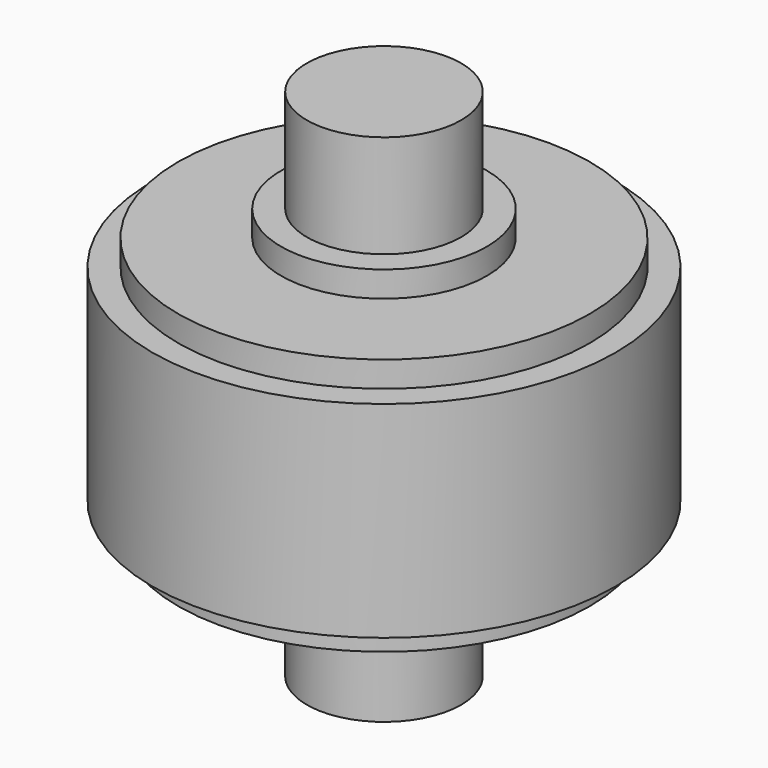
from build123d import *

# Parameters (mm, degrees)
F0_R     = 2.38125
F1_DEPTH = 7.9375
F2_R     = 3.175
F3_DEPTH = 4.7625
F4_R     = 7.14375
F5_DEPTH = 3.175
F6_R     = 6.35
F7_DEPTH = 3.96875


with BuildPart() as f1:
    # F0 (on Top) → F1 (new body, symmetric)
    with BuildSketch(Plane.XY):
        Circle(F0_R)
    extrude(amount=F1_DEPTH, both=True)

    # F2 (on Top) → F3 (join, symmetric)
    with BuildSketch(Plane.XY):
        Circle(F2_R)
    extrude(amount=F3_DEPTH, both=True)

    # F4 (on Top) → F5 (join, symmetric)
    with BuildSketch(Plane.XY):
        Circle(F4_R)
    extrude(amount=F5_DEPTH, both=True)

    # F6 (on Top) → F7 (join, symmetric)
    with BuildSketch(Plane.XY):
        Circle(F6_R)
    extrude(amount=F7_DEPTH, both=True)


solid = f1.part
